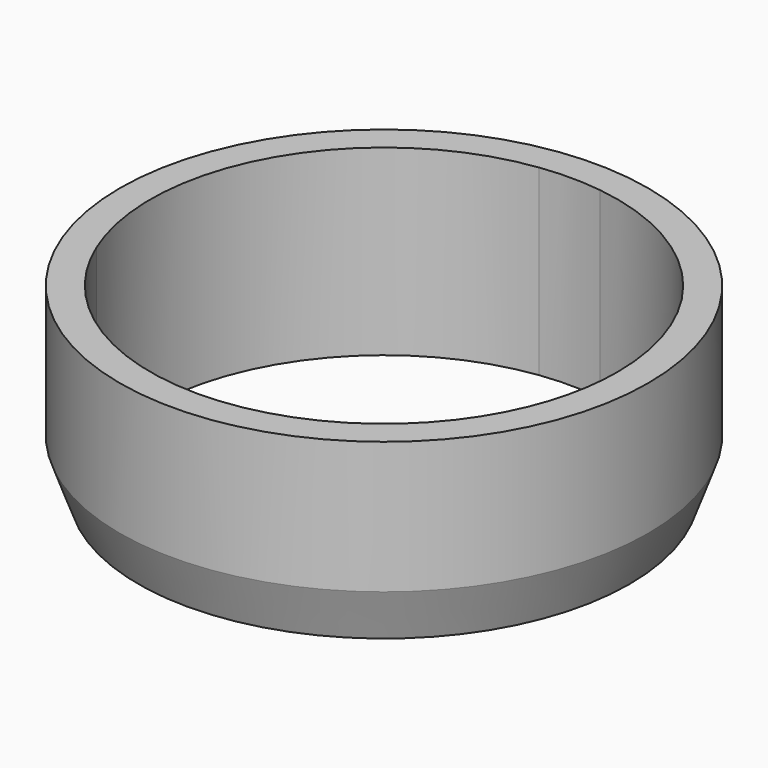
from build123d import *

# Parameters (mm, degrees)
F0_R     = 26
F1_DEPTH = 3
F2_DEPTH = 15
F3_SIZE2 = 1.819851
F3_SIZE  = 5


with BuildPart() as f1:
    # F0 (on Top) → F1 (new body)
    with BuildSketch(Plane.XY):
        Circle(F0_R)
        with BuildLine():
            ThreePointArc((3, 22.803509), (17.291616, 15.165751), (23, 0))
            ThreePointArc((23, 0), (22.557855, -4.488117), (21.248418, -8.803678))
            ThreePointArc((21.248418, -8.803678), (19.918584, -11.5), (18.248418, -13.99983))
            ThreePointArc((18.248418, -13.99983), (0, -23), (-18.248418, -13.99983))
            ThreePointArc((-18.248418, -13.99983), (-19.918584, -11.5), (-21.248418, -8.803678))
            ThreePointArc((-21.248418, -8.803678), (-19.918584, 11.5), (-3, 22.803509))
            ThreePointArc((-3, 22.803509), (0, 23), (3, 22.803509))
        make_face(mode=Mode.SUBTRACT)
    extrude(amount=F1_DEPTH)

    # F0 (on Top) → F2 (join)
    with BuildSketch(Plane.XY):
        Circle(F0_R)
        with BuildLine():
            ThreePointArc((3, 22.803509), (17.291616, 15.165751), (23, 0))
            ThreePointArc((23, 0), (22.557855, -4.488117), (21.248418, -8.803678))
            ThreePointArc((21.248418, -8.803678), (19.918584, -11.5), (18.248418, -13.99983))
            ThreePointArc((18.248418, -13.99983), (0, -23), (-18.248418, -13.99983))
            ThreePointArc((-18.248418, -13.99983), (-19.918584, -11.5), (-21.248418, -8.803678))
            ThreePointArc((-21.248418, -8.803678), (-19.918584, 11.5), (-3, 22.803509))
            ThreePointArc((-3, 22.803509), (0, 23), (3, 22.803509))
        make_face(mode=Mode.SUBTRACT)
    extrude(amount=-F2_DEPTH)

    # F3
    f3_edges = [f1.edges().sort_by_distance(p)[0] for p in [
        (-26, 0, -15),
    ]]
    chamfer(f3_edges, length=F3_SIZE, length2=F3_SIZE2)


solid = f1.part
